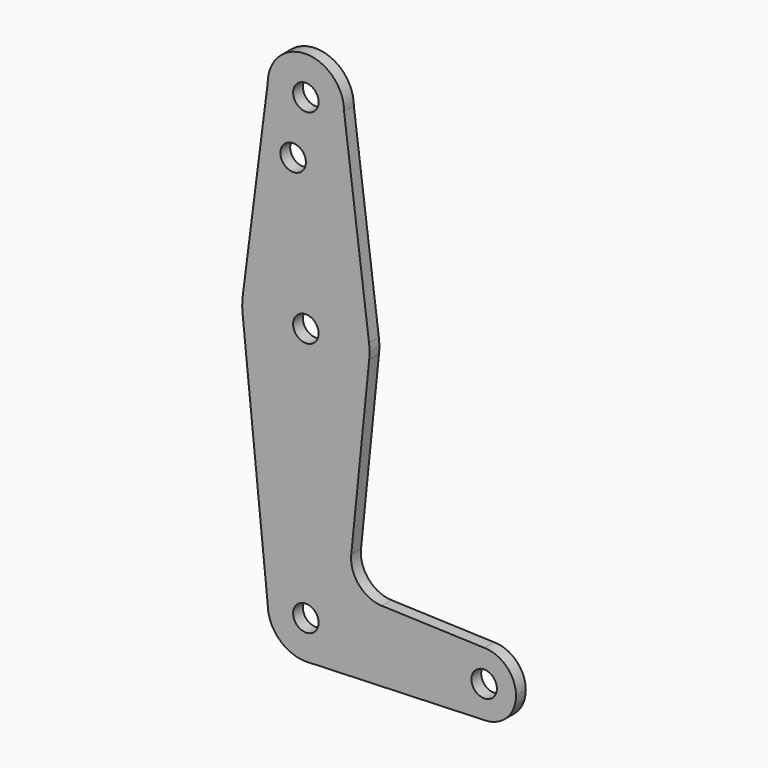
from build123d import *

# Parameters (mm, degrees)
F0_R     = 3.175
F1_DEPTH = 3.048


with BuildPart() as f1:
    # F0 (on Front) → F1 (new body)
    with BuildSketch(Plane.XZ):
        with BuildLine():
            ThreePointArc((-50.32736, 66.906518), (-40.80236, 57.381518), (-31.27736, 66.906518))
            ThreePointArc((-31.27736, 66.906518), (-40.80236, 76.431518), (-50.32736, 66.906518))
        make_face()
        with Locations((-40.80236, 66.906518)):
            Circle(F0_R, mode=Mode.SUBTRACT)
        with BuildLine():
            Line((-25.054903, 18.114807), (-31.27736, 66.906518))
            ThreePointArc((-31.27736, 66.906518), (-40.80236, 57.381518), (-50.32736, 66.906518))
            Line((-50.32736, 66.906518), (-56.549816, 18.114807))
            ThreePointArc((-56.549816, 18.114807), (-40.80236, 31.981518), (-25.054903, 18.114807))
        make_face()
        with Locations((-43.97736, 52.631718)):
            Circle(F0_R, mode=Mode.SUBTRACT)
        with BuildLine():
            ThreePointArc((-24.92736, 16.106518), (-24.959277, 17.112685), (-25.054903, 18.114807))
            ThreePointArc((-25.054903, 18.114807), (-40.80236, 31.981518), (-56.549816, 18.114807))
            ThreePointArc((-56.549816, 18.114807), (-56.676027, 16.312185), (-56.596562, 14.506898))
            ThreePointArc((-56.596562, 14.506898), (-40.80236, 0.231518), (-25.008157, 14.506898))
            ThreePointArc((-25.008157, 14.506898), (-24.947572, 15.305688), (-24.92736, 16.106518))
        make_face()
        with Locations((-40.80236, 16.106518)):
            Circle(F0_R, mode=Mode.SUBTRACT)
        with BuildLine():
            ThreePointArc((-25.008157, 14.506898), (-40.80236, 0.231518), (-56.596562, 14.506898))
            Line((-56.596562, 14.506898), (-50.32736, -47.393482))
            ThreePointArc((-50.32736, -47.393482), (-40.80236, -37.868482), (-31.27736, -47.393482))
            ThreePointArc((-31.27736, -47.393482), (-33.947572, -54.006916), (-40.461089, -56.912367))
            Line((-40.461089, -56.912367), (3.64764, -55.330982))
            ThreePointArc((3.64764, -55.330982), (-4.28986, -47.393482), (3.64764, -39.455982))
            Line((3.64764, -39.455982), (-21.870109, -38.541121))
            ThreePointArc((-21.870109, -38.541121), (-27.577902, -35.820386), (-29.494998, -29.794936))
            Line((-29.494998, -29.794936), (-25.008157, 14.506898))
        make_face()
        with BuildLine():
            ThreePointArc((-31.27736, -47.393482), (-40.80236, -37.868482), (-50.32736, -47.393482))
            ThreePointArc((-50.32736, -47.393482), (-47.415794, -54.24827), (-40.461089, -56.912367))
            ThreePointArc((-40.461089, -56.912367), (-33.947572, -54.006916), (-31.27736, -47.393482))
        make_face()
        with Locations((-40.80236, -47.393482)):
            Circle(F0_R, mode=Mode.SUBTRACT)
        with BuildLine():
            ThreePointArc((3.64764, -39.455982), (-4.28986, -47.393482), (3.64764, -55.330982))
            ThreePointArc((3.64764, -55.330982), (9.2603, -53.006142), (11.58514, -47.393482))
            ThreePointArc((11.58514, -47.393482), (9.2603, -41.780822), (3.64764, -39.455982))
        make_face()
        with Locations((3.64764, -47.393482)):
            Circle(F0_R, mode=Mode.SUBTRACT)
    extrude(amount=F1_DEPTH)


solid = f1.part
